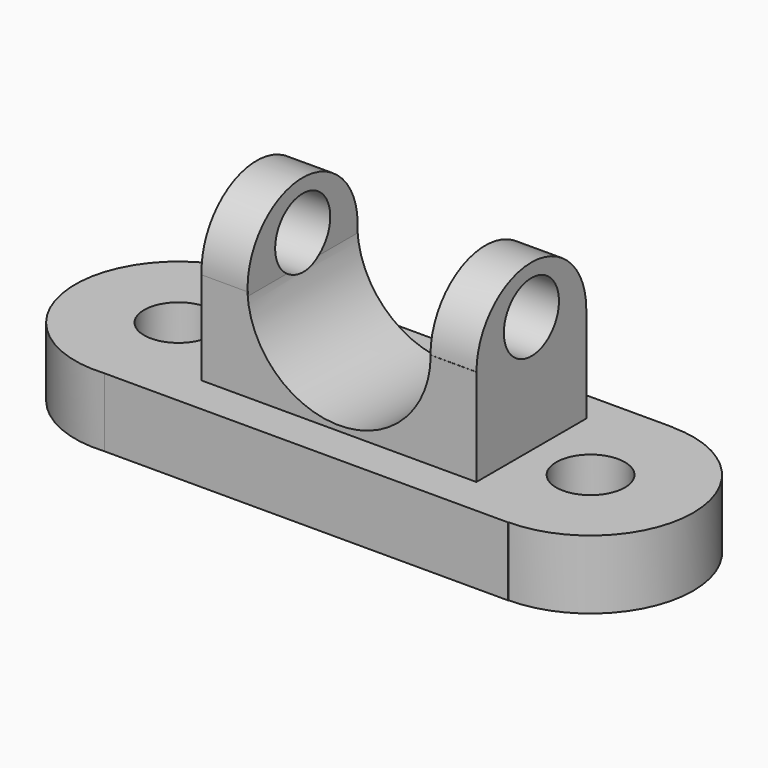
from build123d import *

# Parameters (mm, degrees)
F0_R      = 12.7
F1_DEPTH  = 25.4
F2_W      = 101.6
F2_H      = 50.8
F3_DEPTH  = 35.814
F4_R      = 33.90667
F5_DEPTH  = 57.658
F6_R      = 25.439731
F7_DEPTH  = 17.018
F8_R      = 25.356047
F9_DEPTH  = 17.018
F10_R     = 12.738172
F11_DEPTH = 121.666


with BuildPart() as f1:
    # F0 (on Top) → F1 (new body)
    with BuildSketch(Plane.XY):
        with BuildLine():
            Line((65.169431, 28.175565), (-84.167217, 28.175565))
            ThreePointArc((-84.167217, 28.175565), (-125.453522, -9.924435), (-84.167217, -48.024435))
            Line((-84.167217, -48.024435), (65.169431, -48.024435))
            Line((65.169431, -48.024435), (65.169431, -47.909935))
            ThreePointArc((65.169431, -47.909935), (103.154932, -9.924435), (65.169431, 28.061066))
            Line((65.169431, 28.061066), (65.169431, 28.175565))
        make_face()
        with Locations((-87.230569, -9.924435)):
            Circle(F0_R, mode=Mode.SUBTRACT)
        with Locations((65.169431, -9.924435)):
            Circle(F0_R, mode=Mode.SUBTRACT)
    extrude(amount=F1_DEPTH)

    # F2 (on face) → F3 (join)
    with BuildSketch(Plane.XY.offset(25.4)):
        with Locations((-8.578566, -8.613469)):
            Rectangle(F2_W, F2_H)
    extrude(amount=F3_DEPTH)

    # F4 (on face) → F5 (cut)
    with BuildSketch(Plane.XZ.offset(34.013469)):
        with Locations((-8.578566, 61.214)):
            Circle(F4_R)
    extrude(amount=-F5_DEPTH, mode=Mode.SUBTRACT)

    # F6 (on face) → F7 (join)
    with BuildSketch(Plane(origin=(-59.378566, 0, 0), x_dir=(0, -1, 0), z_dir=(-1, 0, 0))):
        with Locations((8.613469, 61.214)):
            Circle(F6_R)
    extrude(amount=-F7_DEPTH)

    # F8 (on face) → F9 (join)
    with BuildSketch(Plane.YZ.offset(42.221434)):
        with Locations((-8.613469, 61.214)):
            Circle(F8_R)
    extrude(amount=-F9_DEPTH)

    # F10 (on face) → F11 (cut)
    with BuildSketch(Plane(origin=(-59.378566, 0, 0), x_dir=(0, -1, 0), z_dir=(-1, 0, 0))):
        with Locations((8.56952, 68.759516)):
            Circle(F10_R)
    extrude(amount=-F11_DEPTH, mode=Mode.SUBTRACT)


solid = f1.part
